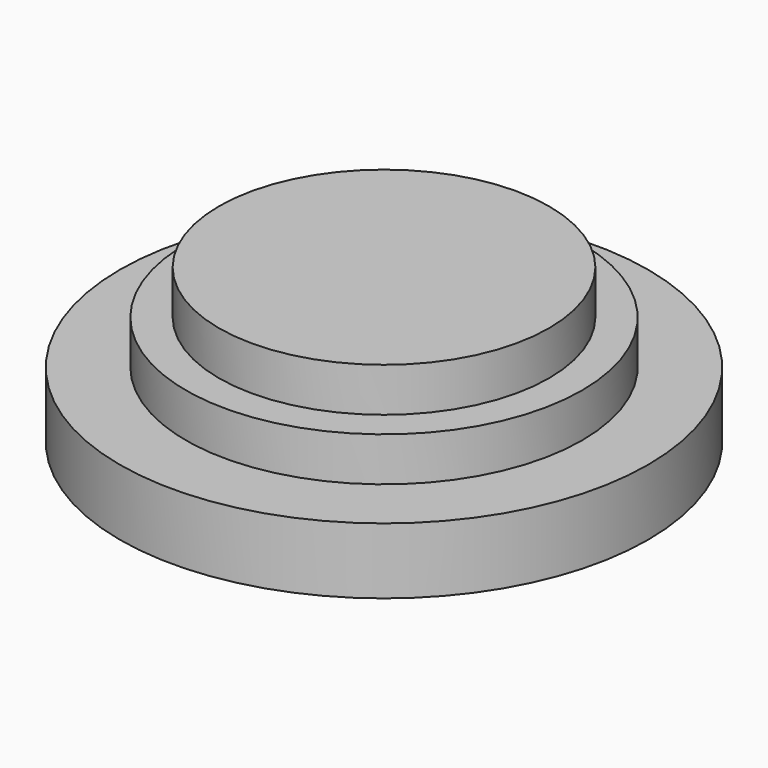
from build123d import *

# Parameters (mm, degrees)
SKETCH001_R      = 9
EXTRUDE001_DEPTH = 5
SKETCH004_R      = 12
EXTRUDE004_DEPTH = 3
SKETCH_R         = 7.5
EXTRUDE_DEPTH    = 7


with BuildPart() as extrude001:
    # Sketch001 → Extrude001 (new body)
    with BuildSketch(Plane.XY):
        Circle(SKETCH001_R)
    extrude(amount=EXTRUDE001_DEPTH)


with BuildPart() as extrude004:
    # Sketch004 → Extrude004 (new body)
    with BuildSketch(Plane.XY):
        Circle(SKETCH004_R)
    extrude(amount=EXTRUDE004_DEPTH)


with BuildPart() as fusion:
    # Sketch → Extrude (new body)
    with BuildSketch(Plane.XY):
        Circle(SKETCH_R)
    extrude(amount=EXTRUDE_DEPTH)

    # Fusion: union Extrude001, Extrude004
    add(extrude001.part)
    add(extrude004.part)


solid = fusion.part
